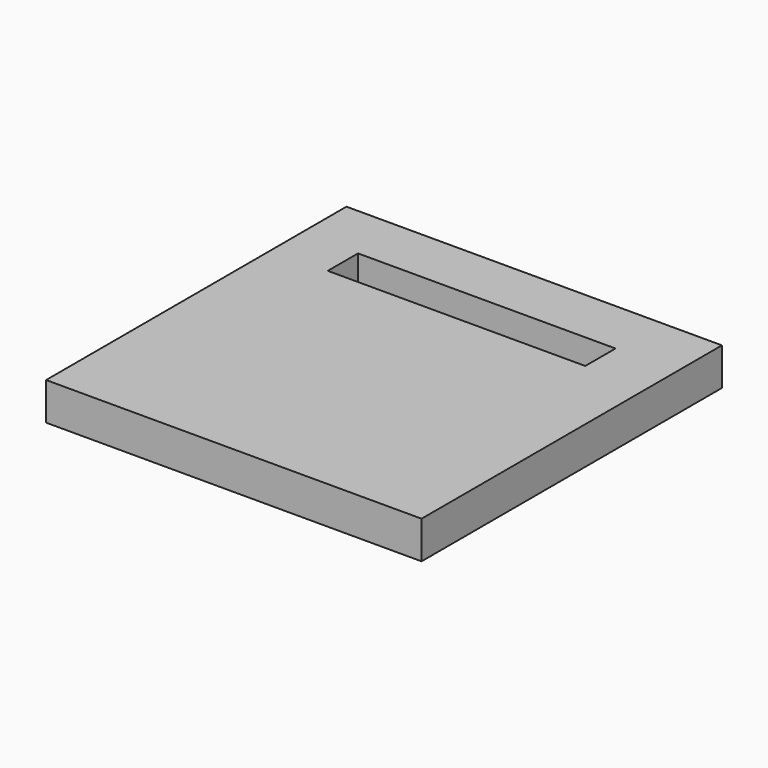
from build123d import *

# Parameters (mm, degrees)
F0_W     = 100
F0_H     = 100
F1_DEPTH = 5
F2_W     = 68.579342
F2_H     = 10.073801
F3_DEPTH = 12.5


with BuildPart() as f1:
    # F0 (on Top) → F1 (new body, symmetric)
    with BuildSketch(Plane.XY):
        Rectangle(F0_W, F0_H)
    extrude(amount=F1_DEPTH, both=True)

    # F2 (on Top) → F3 (cut, symmetric)
    with BuildSketch(Plane.XY):
        with Locations((-0.678042, 30.027677)):
            Rectangle(F2_W, F2_H)
    extrude(amount=F3_DEPTH, both=True, mode=Mode.SUBTRACT)


solid = f1.part
